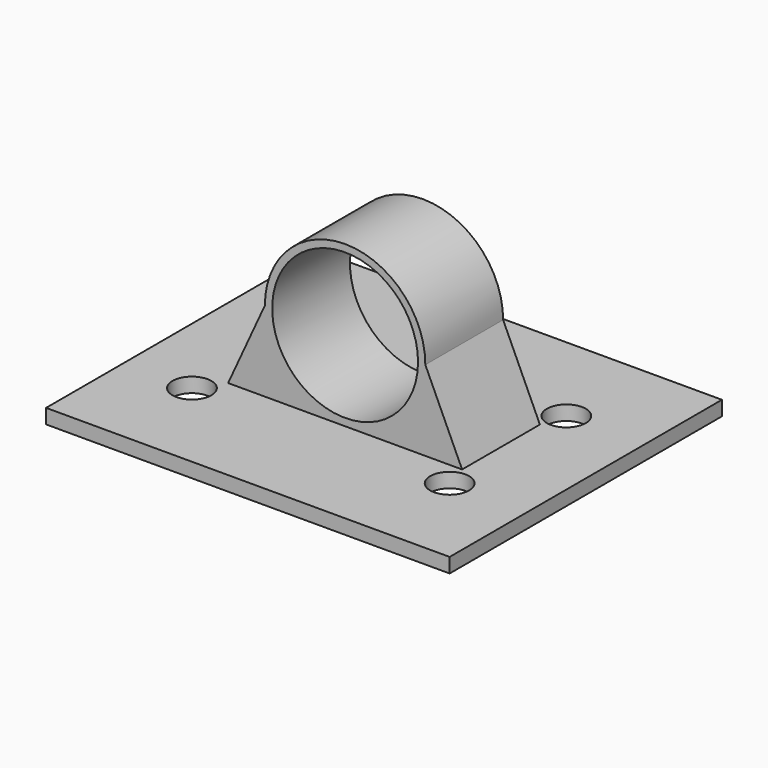
from build123d import *

# Parameters (mm, degrees)
F0_W     = 83
F0_H     = 70
F1_DEPTH = 3
F2_R     = 15
F3_DEPTH = 10
F4_R     = 4
F5_DEPTH = 25


with BuildPart() as f1:
    # F0 (on Top) → F1 (new body)
    with BuildSketch(Plane.XY):
        Rectangle(F0_W, F0_H)
    extrude(amount=-F1_DEPTH)

    # F2 (on Front) → F3 (join, symmetric)
    with BuildSketch(Plane.XZ):
        with BuildLine():
            ThreePointArc((0, 0), (-11.667262, 4.832738), (-16.5, 16.5))
            Line((-16.5, 16.5), (-24.06125, 0))
            Line((-24.06125, 0), (0, 0))
        make_face()
        with BuildLine():
            Line((24.06125, 0), (16.5, 16.5))
            ThreePointArc((16.5, 16.5), (11.667262, 4.832738), (0, 0))
            Line((0, 0), (24.06125, 0))
        make_face()
        with BuildLine():
            ThreePointArc((0, 0), (11.667262, 4.832738), (16.5, 16.5))
            ThreePointArc((16.5, 16.5), (0, 33), (-16.5, 16.5))
            ThreePointArc((-16.5, 16.5), (-11.667262, 4.832738), (0, 0))
        make_face()
        with Locations((0, 16.5)):
            Circle(F2_R, mode=Mode.SUBTRACT)
    extrude(amount=F3_DEPTH, both=True)

    # F4 (on face) → F5 (cut)
    with BuildSketch(Plane(origin=(0, 0, -3), x_dir=(1, 0, 0), z_dir=(0, 0, -1))):
        with Locations((-27.5, -15)):
            Circle(F4_R)
        with Locations((-27.5, 15)):
            Circle(F4_R)
        with Locations((25.5, 15)):
            Circle(F4_R)
        with Locations((25.5, -15)):
            Circle(F4_R)
    extrude(amount=-F5_DEPTH, mode=Mode.SUBTRACT)


solid = f1.part
